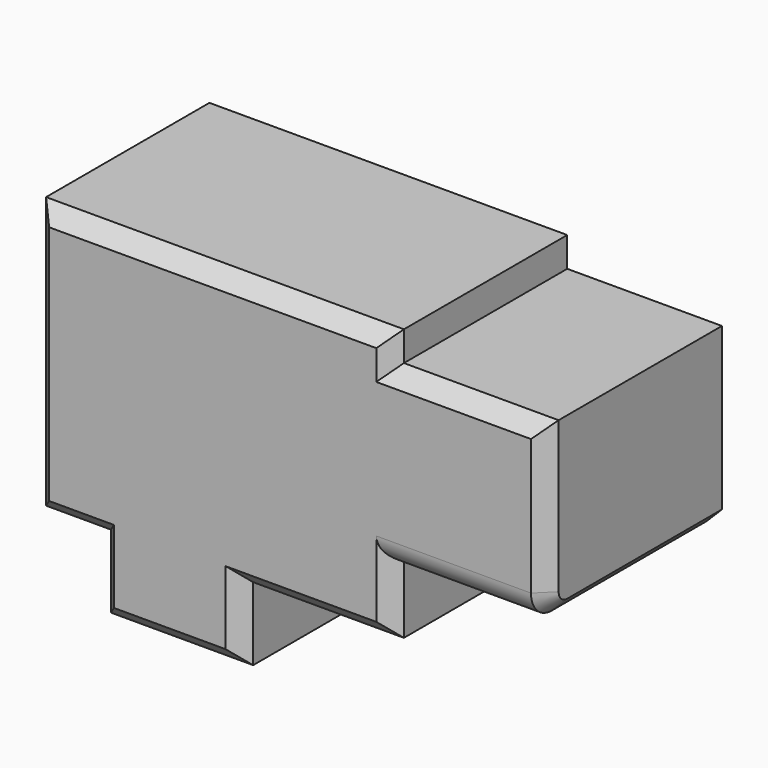
from build123d import *

# Parameters (mm, degrees)
F0_W     = 47.09104
F0_H     = 24.184491
F0_W_2   = 51.191684
F0_H_2   = 58.543412
F1_DEPTH = 72.644
F2_R     = 8.584943
F3_SIZE  = 5.08


with BuildPart() as f1:
    # F0 (on Front) → F1 (new body)
    with BuildSketch(Plane.XZ):
        with Locations((-13.492128, -38.009723)):
            Rectangle(F0_W, F0_H)
        Polygon((10.053392, -25.917478), (59.94251, -25.917478), (59.94251, -4.400743), (59.94251, 54.142669), (59.94251, 63.985944), (-58.487043, 63.985944), (-58.487043, -25.917478), (-37.037648, -25.917478), align=None)
        with Locations((85.538352, 24.870963)):
            Rectangle(F0_W_2, F0_H_2)
    extrude(amount=F1_DEPTH)

    # F2
    f2_edges = [f1.edges().sort_by_distance(p)[0] for p in [
        (85.538352, -72.644, -4.400743),
    ]]
    fillet(f2_edges, radius=F2_R)

    # F3
    f3_edges = [f1.edges().sort_by_distance(p)[0] for p in [
        (111.134194, -72.644, 29.163435),
        (85.538352, -72.644, 4.1842),
        (85.538352, -72.644, 54.142669),
        (59.94251, -72.644, -0.108271),
        (59.94251, -72.644, 59.064306),
        (59.94251, -72.644, -15.159111),
        (0.727734, -72.644, 63.985944),
        (34.997951, -72.644, -25.917478),
        (-58.487043, -72.644, 19.034233),
        (10.053392, -72.644, -38.009724),
        (-47.762346, -72.644, -25.917478),
        (-13.492128, -72.644, -50.101969),
        (-37.037648, -72.644, -38.009724),
    ]]
    chamfer(f3_edges, length=F3_SIZE)


solid = f1.part
